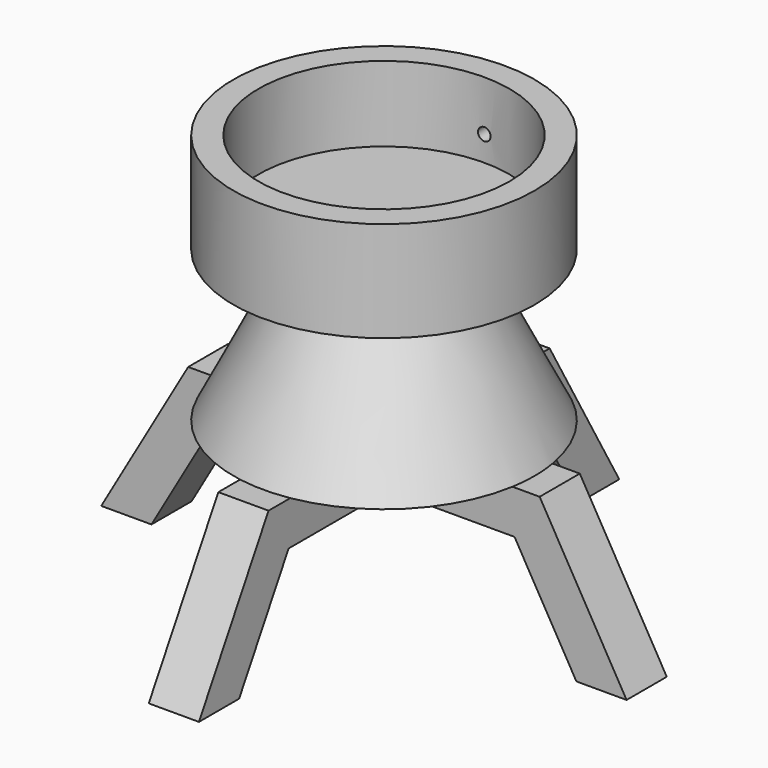
from build123d import *

# Parameters (mm, degrees)
F0_R      = 127
F1_DEPTH  = 25.4
F0_R_2    = 152.4
F2_DEPTH  = 101.6
F3_R      = 6.35
F4_DEPTH  = 152.401
F5_R      = 76.2
F7_R      = 152.4
F10_DEPTH = 25.4
F12_DEPTH = 25.4


with BuildPart() as f1:
    # F0 (on Top) → F1 (new body)
    with BuildSketch(Plane.XY):
        Circle(F0_R)
    extrude(amount=F1_DEPTH)

    # F0 (on Top) → F2 (join)
    with BuildSketch(Plane.XY):
        Circle(F0_R_2)
        Circle(F0_R, mode=Mode.SUBTRACT)
    extrude(amount=F2_DEPTH)

    # F3 (on Front) → F4 (cut, through all)
    with BuildSketch(Plane.XZ):
        with Locations((0, 50.8)):
            Circle(F3_R)
    extrude(amount=-F4_DEPTH, mode=Mode.SUBTRACT)

    # F5 (on face) → F8 section 0
    with BuildSketch(Plane(origin=(0, 0, 0), x_dir=(1, 0, 0), z_dir=(0, 0, -1))):
        Circle(F5_R)
    # F7 (on offset) → F8 section 1
    with BuildSketch(Plane(origin=(0, 0, -152.4), x_dir=(1, 0, 0), z_dir=(0, 0, -1))):
        Circle(F7_R)
    loft()

    # F9 (on Front) → F10 (join, symmetric)
    with BuildSketch(Plane.XZ):
        Polygon((-50.8, -196.394091), (-25.4, -152.4), (-152.4, -152.4), (-177.8, -152.4), (-265.788181, -304.8), (-214.988181, -304.8), (-152.4, -196.394091), align=None)
        Polygon((177.8, -152.4), (152.4, -152.4), (152.4, -196.394091), (214.988181, -304.8), (265.788181, -304.8), align=None)
        Polygon((152.4, -152.4), (25.4, -152.4), (50.8, -196.394091), (152.4, -196.394091), align=None)
    extrude(amount=F10_DEPTH, both=True)

    # F11 (on Right) → F12 (join, symmetric)
    with BuildSketch(Plane.YZ):
        Polygon((152.4, -152.4), (25.4, -152.4), (50.8, -196.394091), (152.4, -196.394091), align=None)
        Polygon((-50.8, -196.394091), (-25.4, -152.4), (-152.4, -152.4), (-152.4, -196.394091), align=None)
        Polygon((177.8, -152.4), (152.4, -152.4), (152.4, -196.394091), (214.988181, -304.8), (265.788181, -304.8), align=None)
        Polygon((-152.4, -196.394091), (-152.4, -152.4), (-177.8, -152.4), (-265.788181, -304.8), (-214.988181, -304.8), align=None)
    extrude(amount=F12_DEPTH, both=True)


solid = f1.part
